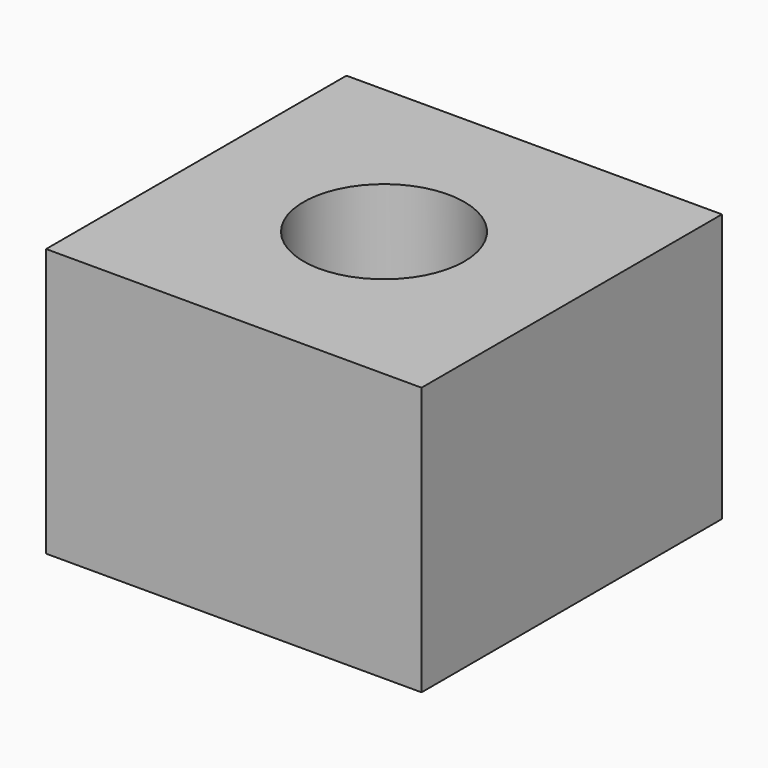
from build123d import *

# Parameters (mm, degrees)
CYLINDER_R     = 1.5
CYLINDER_DEPTH = 10
BOX008_W       = 7
BOX008_H       = 7
BOX008_DEPTH   = 5


with BuildPart() as hole:
    # Cylinder → Cylinder (new body)
    with BuildSketch(Plane(origin=(5.9, 46.3, 0), x_dir=(1, 0, 0), z_dir=(0, 0, 1))):
        Circle(CYLINDER_R)
    extrude(amount=CYLINDER_DEPTH)


with BuildPart() as stand_hole_cut:
    # Box008 → Box008 (new body)
    with BuildSketch(Plane(origin=(2.4, 42.8, 0), x_dir=(1, 0, 0), z_dir=(0, 0, 1))):
        with Locations((3.5, 3.5)):
            Rectangle(BOX008_W, BOX008_H)
    extrude(amount=BOX008_DEPTH)

    # Cut003002: cut hole
    add(hole.part, mode=Mode.SUBTRACT)


solid = stand_hole_cut.part
